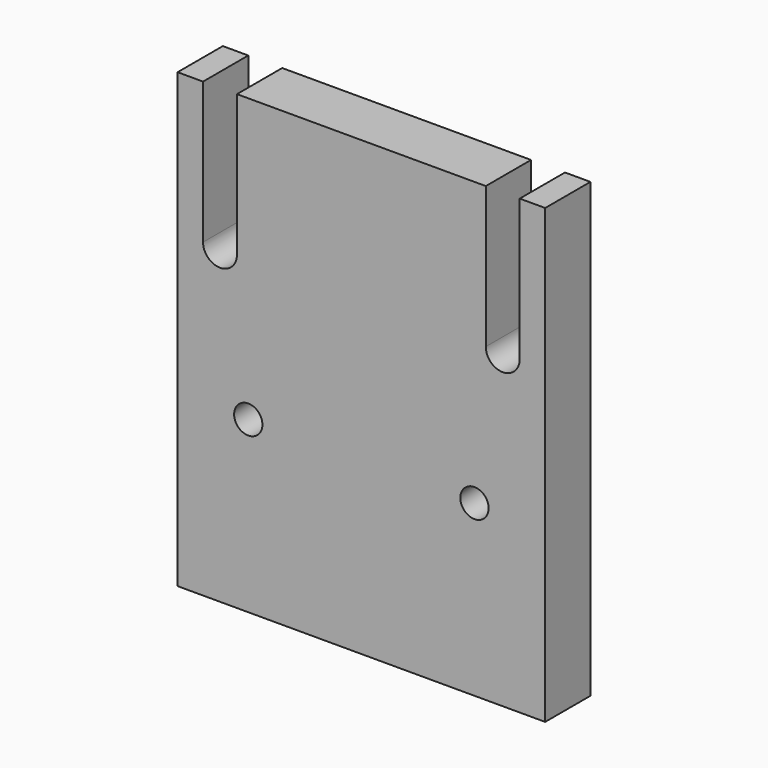
from build123d import *

# Parameters (mm, degrees)
F0_W           = 65
F0_H           = 80
F1_DEPTH       = 10
F3_D           = 5
F3_CSINK_D     = 10
F3_CSINK_ANGLE = 90
F5_W           = 6
F5_H           = 25
F4_R           = 3
F7_DEPTH       = 10
F6_W           = 6
F6_H           = 25
F8_DEPTH       = 10
F9_R           = 3
F10_DEPTH      = 25


with BuildPart() as f1:
    # F0 (on Front) → F1 (new body)
    with BuildSketch(Plane.XZ):
        Rectangle(F0_W, F0_H)
    extrude(amount=F1_DEPTH)

    # F3 (through all)
    with Locations(Plane(origin=(0, 0, 0), x_dir=(1, 0, 0), z_dir=(0, 1, 0))):
        with Locations((-20, 10), (20, 10)):
            CounterSinkHole(F3_D / 2, F3_CSINK_D / 2, counter_sink_angle=F3_CSINK_ANGLE)

    # F5 (on Front) + F4 (on Front) → F7 (cut)
    with BuildSketch(Plane.XZ):
        with Locations((-25, 27.5)):
            Rectangle(F5_W, F5_H)
    with BuildSketch(Plane.XZ):
        with Locations((-25, 15)):
            Circle(F4_R)
    extrude(amount=F7_DEPTH, mode=Mode.SUBTRACT)

    # F6 (on Front) → F8 (cut)
    with BuildSketch(Plane.XZ):
        with Locations((25, 27.5)):
            Rectangle(F6_W, F6_H)
    extrude(amount=F8_DEPTH, mode=Mode.SUBTRACT)

    # F9 (on Front) → F10 (cut)
    with BuildSketch(Plane.XZ):
        with Locations((25, 15)):
            Circle(F9_R)
    extrude(amount=F10_DEPTH, mode=Mode.SUBTRACT)


solid = f1.part
